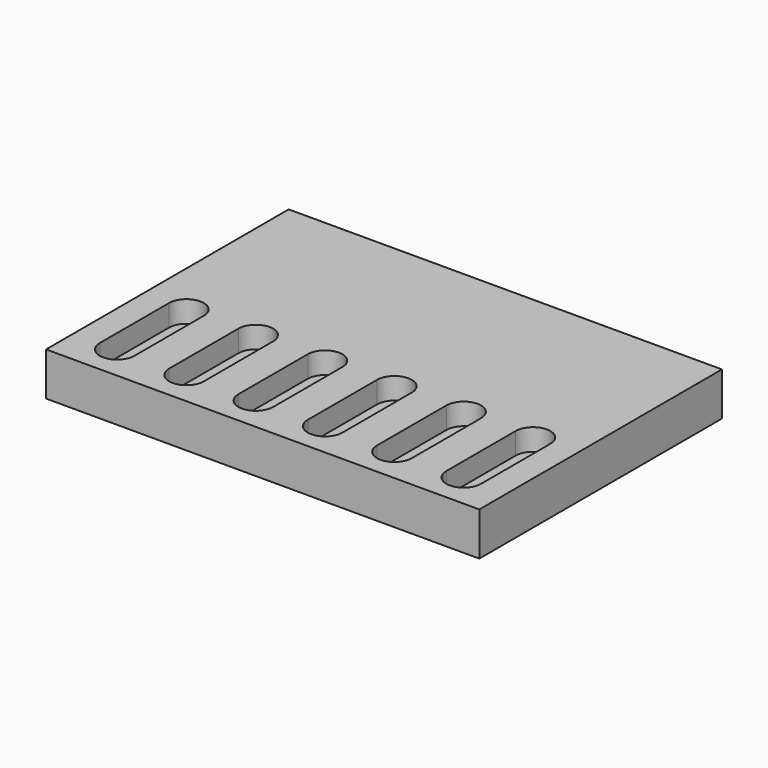
from build123d import *

# Parameters (mm, degrees)
SKETCH_W            = 100
SKETCH_H            = 70
PAD_DEPTH           = 10
POCKET_DEPTH        = 5
LINEARPATTERN_COUNT = 6
LINEARPATTERN_PITCH = 16


with BuildPart() as part:
    # Sketch → Pad (new body)
    with BuildSketch(Plane.XY):
        Rectangle(SKETCH_W, SKETCH_H)
    extrude(amount=PAD_DEPTH)

    # Sketch001 (on Face6 of Pad) → Pocket (cut)
    with BuildSketch(Plane.XY.offset(10)):
        with BuildLine():
            ThreePointArc((-36, -7), (-40, -3), (-44, -7))
            Line((-44, -7), (-44, -27))
            ThreePointArc((-44, -27), (-40, -31), (-36, -27))
            Line((-36, -7), (-36, -27))
        make_face()
    pocket = extrude(amount=-POCKET_DEPTH, mode=Mode.SUBTRACT)

    # LinearPattern: Pocket ×6
    with Locations(*[(i * LINEARPATTERN_PITCH, 0, 0) for i in range(1, LINEARPATTERN_COUNT)]):
        add(pocket, mode=Mode.SUBTRACT)


solid = part.part
